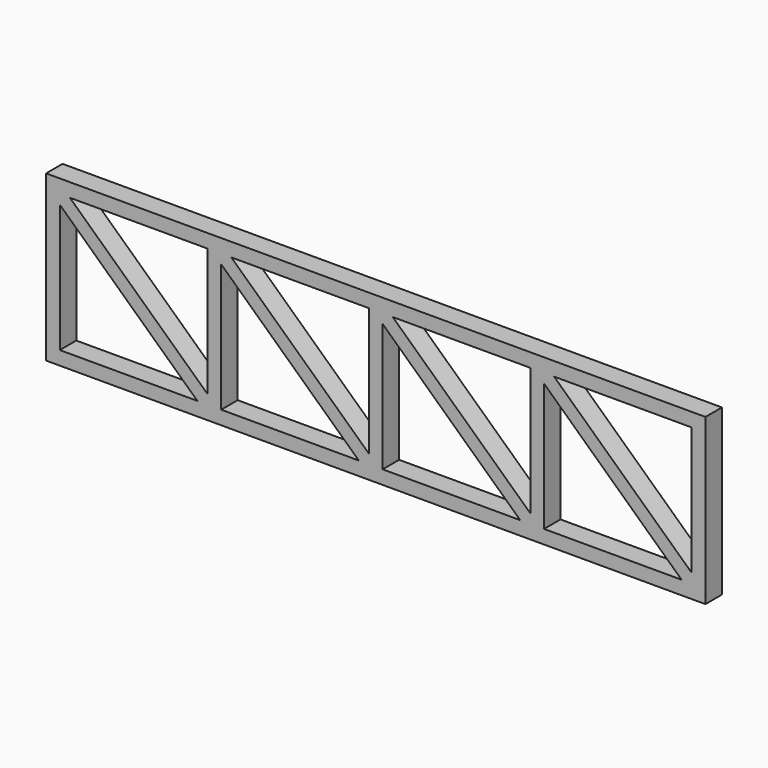
from build123d import *

# Parameters (mm, degrees)
F0_W     = 152.4
F0_H     = 38.1
F1_DEPTH = 4.7625


with BuildPart() as f1:
    # F0 (on Front) → F1 (new body)
    with BuildSketch(Plane.XZ):
        Rectangle(F0_W, F0_H)
        Polygon((-73.025, -15.875), (-73.025, 13.706837), (-41.224525, -15.875), align=None, mode=Mode.SUBTRACT)
        Polygon((-35.71875, -15.875), (-35.71875, 13.706837), (-3.918275, -15.875), align=None, mode=Mode.SUBTRACT)
        Polygon((1.5875, -15.875), (1.5875, 13.706837), (33.387975, -15.875), align=None, mode=Mode.SUBTRACT)
        Polygon((38.89375, -15.875), (38.89375, 13.706837), (70.694225, -15.875), align=None, mode=Mode.SUBTRACT)
        Polygon((-38.89375, -13.706837), (-70.694225, 15.875), (-38.89375, 15.875), align=None, mode=Mode.SUBTRACT)
        Polygon((-33.387975, 15.875), (-1.5875, 15.875), (-1.5875, -13.706837), align=None, mode=Mode.SUBTRACT)
        Polygon((35.71875, -13.706837), (3.918275, 15.875), (35.71875, 15.875), align=None, mode=Mode.SUBTRACT)
        Polygon((41.224525, 15.875), (73.025, 15.875), (73.025, -13.706837), align=None, mode=Mode.SUBTRACT)
    extrude(amount=F1_DEPTH)


solid = f1.part
